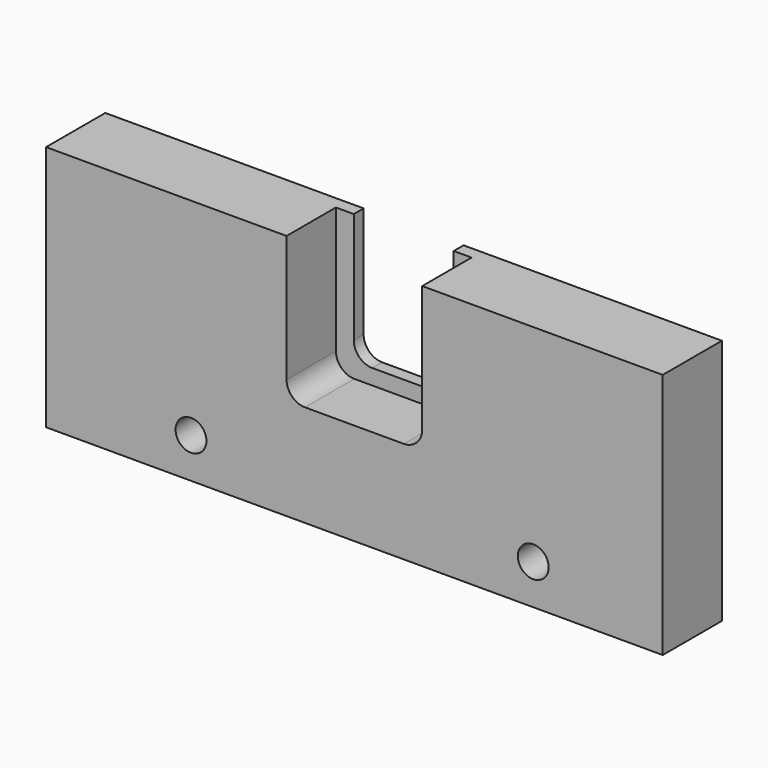
from build123d import *

# Parameters (mm, degrees)
F0_W     = 100
F0_H     = 12
F1_DEPTH = 40
F2_R     = 2.5
F3_DEPTH = 25
F5_DEPTH = 10
F7_DEPTH = 25


with BuildPart() as f1:
    # F0 (on Top) → F1 (new body)
    with BuildSketch(Plane.XY):
        with Locations((50, -6)):
            Rectangle(F0_W, F0_H)
    extrude(amount=F1_DEPTH)

    # F2 (on face) → F3 (cut)
    with BuildSketch(Plane.XZ.offset(12)):
        with Locations((79, 6.5)):
            Circle(F2_R)
        with Locations((23.5, 6.5)):
            Circle(F2_R)
    extrude(amount=-F3_DEPTH, mode=Mode.SUBTRACT)

    # F4 (on face) → F5 (cut)
    with BuildSketch(Plane.XZ.offset(12)):
        with BuildLine():
            Line((61, 40), (39, 40))
            Line((39, 40), (39, 19.5))
            ThreePointArc((39, 19.5), (39.87868, 17.37868), (42, 16.5))
            Line((42, 16.5), (58, 16.5))
            ThreePointArc((58, 16.5), (60.12132, 17.37868), (61, 19.5))
            Line((61, 19.5), (61, 40))
        make_face()
    extrude(amount=-F5_DEPTH, mode=Mode.SUBTRACT)

    # F6 (on face) → F7 (cut)
    with BuildSketch(Plane.XZ.offset(2)):
        with BuildLine():
            Line((58.1, 40), (41.9, 40))
            Line((41.9, 40), (41.9, 22))
            ThreePointArc((41.9, 22), (42.77868, 19.87868), (44.9, 19))
            Line((44.9, 19), (55.1, 19))
            ThreePointArc((55.1, 19), (57.22132, 19.87868), (58.1, 22))
            Line((58.1, 22), (58.1, 40))
        make_face()
    extrude(amount=-F7_DEPTH, mode=Mode.SUBTRACT)


solid = f1.part
